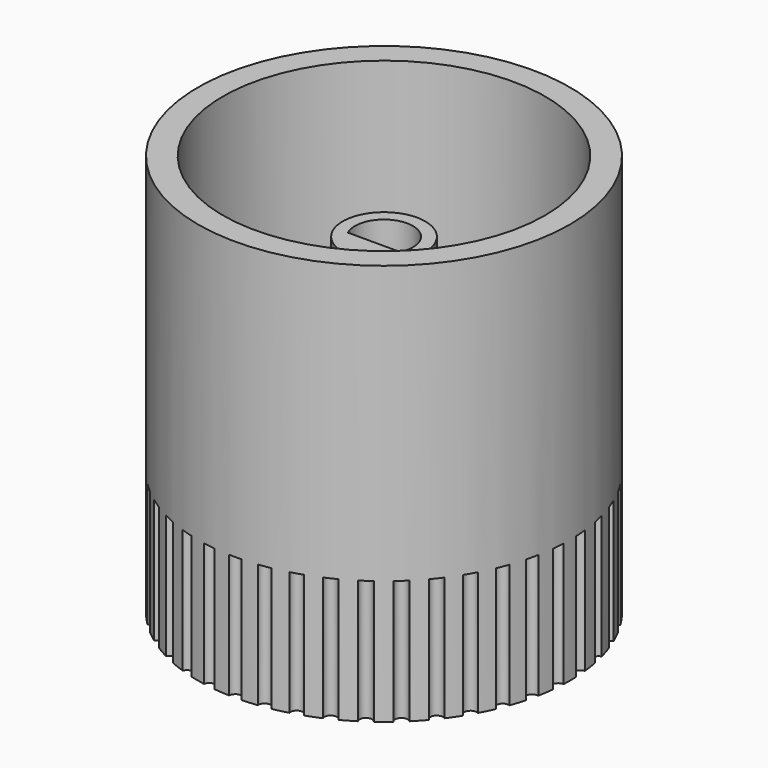
from build123d import *

# Parameters (mm, degrees)
F10_R     = 22.5
F0_DEPTH  = 48.6
F1_T      = -3
F2_R      = 5
F3_DEPTH  = 37
F11_DEPTH = 30
F5_DEPTH  = 25
F13_R     = 1
F6_DEPTH  = 2
F7_R      = 1
F8_R      = 0.75
F9_DEPTH  = 15


with BuildPart() as f0:
    # F10 (on Top) → F0 (new body)
    with BuildSketch(Plane.XY):
        Circle(F10_R)
    extrude(amount=F0_DEPTH)

    # F1
    f1_openings = [f0.faces().sort_by_distance(p)[0] for p in [
        (0, 0, 48.6),
    ]]
    offset(amount=F1_T, openings=f1_openings)

    # F2 (on face) → F3 (join)
    with BuildSketch(Plane.XY.offset(3)):
        Circle(F2_R)
    extrude(amount=F3_DEPTH)

    # F4 (on face) → F11 (cut)
    with BuildSketch(Plane.XY.offset(40)):
        with BuildLine():
            ThreePointArc((3.1622776602, -1.5), (3.4145257219, -0.7687744108), (3.5, 0))
            ThreePointArc((3.5, 0), (-0.7687744108, 3.4145257219), (-3.1622776602, -1.5))
            Line((-3.1622776602, -1.5), (3.1622776602, -1.5))
        make_face()
    extrude(amount=-F11_DEPTH, mode=Mode.SUBTRACT)

    # F12 (on face) → F5 (cut)
    with BuildSketch(Plane.XY.offset(3)):
        with BuildLine():
            Line((5.1825942436, 11.3750040398), (7.255631941, 15.9250056558))
            Line((7.255631941, 15.9250056558), (-7.255631941, 15.9250056558))
            Line((-7.255631941, 15.9250056558), (-5.1825942436, 11.3750040398))
            ThreePointArc((-5.1825942436, 11.3750040398), (0, 12.5), (5.1825942436, 11.3750040398))
        make_face()
        with BuildLine():
            Line((-7.255631941, 15.9250056558), (7.255631941, 15.9250056558))
            ThreePointArc((7.255631941, 15.9250056558), (0, 17.5), (-7.255631941, 15.9250056558))
        make_face()
    extrude(amount=-F5_DEPTH, mode=Mode.SUBTRACT)

    # F13 (on face) → F6 (cut)
    with BuildSketch(Plane(origin=(0, 0, 0), x_dir=(1, 0, 0), z_dir=(0, 0, -1))):
        with Locations((0, -10)):
            Circle(F13_R)
    extrude(amount=-F6_DEPTH, mode=Mode.SUBTRACT)

    # F7
    f7_edges = [f0.edges().sort_by_distance(p)[0] for p in [
        (-1, 10, 2),
    ]]
    fillet(f7_edges, radius=F7_R)

    # F8 (on face) → F9 (cut)
    with BuildSketch(Plane(origin=(0, 0, 0), x_dir=(1, 0, 0), z_dir=(0, 0, -1))):
        with Locations((0, -22.5)):
            Circle(F8_R)
        with Locations((3.353450989, -22.2486935901)):
            Circle(F8_R)
        with Locations((6.6319914242, -21.5003881302)):
            Circle(F8_R)
        with Locations((9.7623841301, -20.2717995278)):
            Circle(F8_R)
        with Locations((12.6747013064, -18.5903724221)):
            Circle(F8_R)
        with Locations((15.3038865998, -16.4936671162)):
            Circle(F8_R)
        with Locations((17.5912083555, -14.0285205418)):
            Circle(F8_R)
        with Locations((19.4855715851, -11.25)):
            Circle(F8_R)
        with Locations((20.9446593445, -8.2201730482)):
            Circle(F8_R)
        with Locations((21.9358780241, -5.006721014)):
            Circle(F8_R)
        with Locations((22.4370854366, -1.6814271057)):
            Circle(F8_R)
        with Locations((22.4370854366, 1.6814271057)):
            Circle(F8_R)
        with Locations((21.9358780241, 5.006721014)):
            Circle(F8_R)
        with Locations((20.9446593445, 8.2201730482)):
            Circle(F8_R)
        with Locations((19.4855715851, 11.25)):
            Circle(F8_R)
        with Locations((17.5912083555, 14.0285205418)):
            Circle(F8_R)
        with Locations((15.3038865998, 16.4936671162)):
            Circle(F8_R)
        with Locations((12.6747013064, 18.5903724221)):
            Circle(F8_R)
        with Locations((9.7623841301, 20.2717995278)):
            Circle(F8_R)
        with Locations((6.6319914242, 21.5003881302)):
            Circle(F8_R)
        with Locations((3.353450989, 22.2486935901)):
            Circle(F8_R)
        with Locations((0, 22.5)):
            Circle(F8_R)
        with Locations((-3.353450989, 22.2486935901)):
            Circle(F8_R)
        with Locations((-6.6319914242, 21.5003881302)):
            Circle(F8_R)
        with Locations((-9.7623841301, 20.2717995278)):
            Circle(F8_R)
        with Locations((-12.6747013064, 18.5903724221)):
            Circle(F8_R)
        with Locations((-15.3038865998, 16.4936671162)):
            Circle(F8_R)
        with Locations((-17.5912083555, 14.0285205418)):
            Circle(F8_R)
        with Locations((-19.4855715851, 11.25)):
            Circle(F8_R)
        with Locations((-20.9446593445, 8.2201730482)):
            Circle(F8_R)
        with Locations((-21.9358780241, 5.006721014)):
            Circle(F8_R)
        with Locations((-22.4370854366, 1.6814271057)):
            Circle(F8_R)
        with Locations((-22.4370854366, -1.6814271057)):
            Circle(F8_R)
        with Locations((-21.9358780241, -5.006721014)):
            Circle(F8_R)
        with Locations((-20.9446593445, -8.2201730482)):
            Circle(F8_R)
        with Locations((-19.4855715851, -11.25)):
            Circle(F8_R)
        with Locations((-17.5912083555, -14.0285205418)):
            Circle(F8_R)
        with Locations((-15.3038865998, -16.4936671162)):
            Circle(F8_R)
        with Locations((-12.6747013064, -18.5903724221)):
            Circle(F8_R)
        with Locations((-9.7623841301, -20.2717995278)):
            Circle(F8_R)
        with Locations((-6.6319914242, -21.5003881302)):
            Circle(F8_R)
        with Locations((-3.353450989, -22.2486935901)):
            Circle(F8_R)
    extrude(amount=-F9_DEPTH, mode=Mode.SUBTRACT)


solid = f0.part
